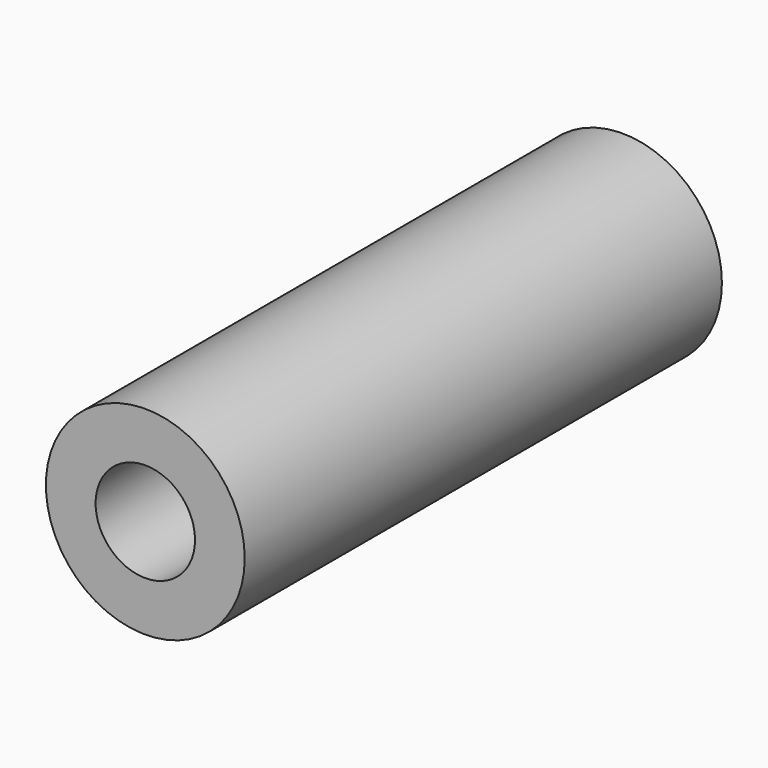
from build123d import *

# Parameters (mm, degrees)
F0_R     = 5
F0_R_2   = 2.5
F1_DEPTH = 30
F2_R     = 2.5
F3_DEPTH = 15


with BuildPart() as f1:
    # F0 (on Front) → F1 (new body)
    with BuildSketch(Plane.XZ):
        Circle(F0_R)
        Circle(F0_R_2, mode=Mode.SUBTRACT)
        Circle(F0_R_2)
    extrude(amount=F1_DEPTH)

    # F2 (on face) → F3 (cut)
    with BuildSketch(Plane.XZ.offset(30)):
        Circle(F2_R)
    extrude(amount=-F3_DEPTH, mode=Mode.SUBTRACT)


solid = f1.part
